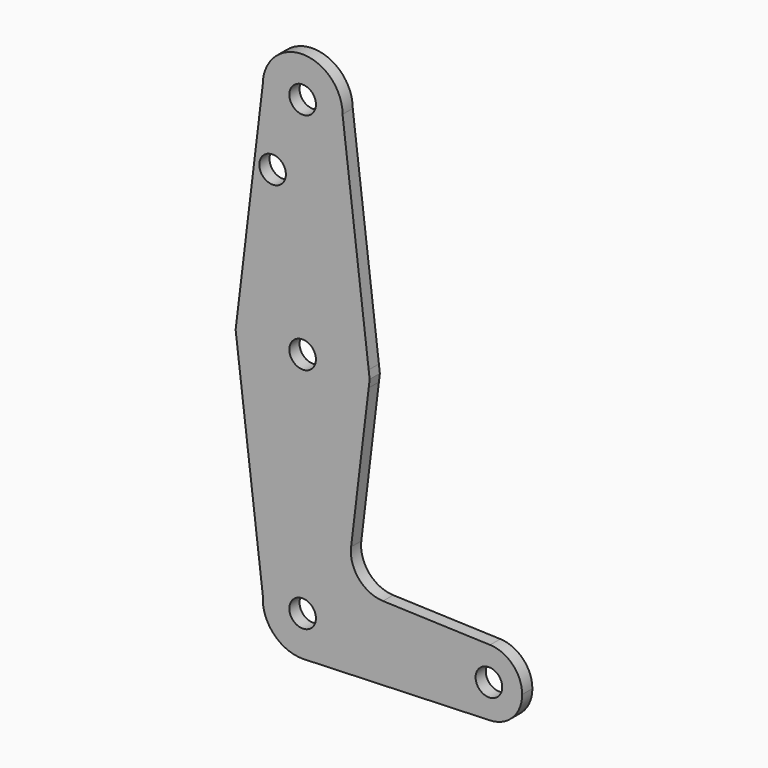
from build123d import *

# Parameters (mm, degrees)
F0_R     = 3.175
F1_DEPTH = 3.048


with BuildPart() as f1:
    # F0 (on Front) → F1 (new body)
    with BuildSketch(Plane.XZ):
        with BuildLine():
            ThreePointArc((0, 44.02666), (6.735192, 46.816468), (9.525, 53.55166))
            ThreePointArc((9.525, 53.55166), (0, 63.07666), (-9.525, 53.55166))
            ThreePointArc((-9.525, 53.55166), (-6.735192, 46.816468), (0, 44.02666))
        make_face()
        with Locations((0, 53.55166)):
            Circle(F0_R, mode=Mode.SUBTRACT)
        with BuildLine():
            Line((15.760555, 1.902767), (9.525, 53.55166))
            ThreePointArc((9.525, 53.55166), (6.735192, 46.816468), (0, 44.02666))
            Line((0, 44.02666), (0, 40.12119))
            Line((0, 40.12119), (0, 36.5252))
            Line((0, 36.5252), (0, 15.875))
            ThreePointArc((0, 15.875), (10.531125, 11.879016), (15.760555, 1.902767))
        make_face()
        with BuildLine():
            ThreePointArc((0, 44.02666), (-6.735192, 46.816468), (-9.525, 53.55166))
            Line((-9.525, 53.55166), (-11.580599, 36.5252))
            Line((-11.580599, 36.5252), (-10.346856, 36.5252))
            ThreePointArc((-10.346856, 36.5252), (-7.171856, 39.7002), (-3.996856, 36.5252))
            Line((-3.996856, 36.5252), (0, 36.5252))
            Line((0, 36.5252), (0, 40.12119))
            Line((0, 40.12119), (0, 44.02666))
        make_face()
        with BuildLine():
            Line((15.990276, 0), (15.760555, 1.902767))
            ThreePointArc((15.760555, 1.902767), (15.846363, 0.953103), (15.875, 0))
            ThreePointArc((15.875, 0), (15.846363, -0.953103), (15.760555, -1.902767))
            Line((15.760555, -1.902767), (15.990276, 0))
        make_face()
        with BuildLine():
            ThreePointArc((3.175, 0), (2.245064, 2.245064), (0, 3.175))
            ThreePointArc((0, 3.175), (-2.245064, -2.245064), (3.175, 0))
        make_face()
        with BuildLine():
            ThreePointArc((15.875, 0), (15.846363, 0.953103), (15.760555, 1.902767))
            ThreePointArc((15.760555, 1.902767), (10.531125, 11.879016), (0, 15.875))
            ThreePointArc((0, 15.875), (-10.531125, 11.879016), (-15.760555, 1.902767))
            ThreePointArc((-15.760555, 1.902767), (-15.875, 0), (-15.760555, -1.902767))
            ThreePointArc((-15.760555, -1.902767), (0, -15.875), (15.760555, -1.902767))
            ThreePointArc((15.760555, -1.902767), (15.846363, -0.953103), (15.875, 0))
        make_face()
        with BuildLine():
            ThreePointArc((3.175, 0), (-2.245064, -2.245064), (0, 3.175))
            ThreePointArc((0, 3.175), (2.245064, 2.245064), (3.175, 0))
        make_face(mode=Mode.SUBTRACT)
        with BuildLine():
            Line((-10.346856, 36.5252), (-11.580599, 36.5252))
            Line((-11.580599, 36.5252), (-15.760555, 1.902767))
            ThreePointArc((-15.760555, 1.902767), (-10.531125, 11.879016), (0, 15.875))
            Line((0, 15.875), (0, 36.5252))
            Line((0, 36.5252), (-3.996856, 36.5252))
            ThreePointArc((-3.996856, 36.5252), (-7.171856, 33.3502), (-10.346856, 36.5252))
        make_face()
        with BuildLine():
            ThreePointArc((-15.760555, -1.902767), (-15.875, 0), (-15.760555, 1.902767))
            Line((-15.760555, 1.902767), (-15.990276, 0))
            Line((-15.990276, 0), (-15.760555, -1.902767))
        make_face()
        with BuildLine():
            Line((11.564578, -36.657906), (15.760555, -1.902767))
            ThreePointArc((15.760555, -1.902767), (0, -15.875), (-15.760555, -1.902767))
            Line((-15.760555, -1.902767), (-9.502236, -53.740212))
            ThreePointArc((-9.502236, -53.740212), (0.329261, -44.879032), (9.525, -54.39834))
            ThreePointArc((9.525, -54.39834), (6.970557, -60.889639), (0.677344, -63.899226))
            Line((0.677344, -63.899226), (44.732405, -62.330814))
            ThreePointArc((44.732405, -62.330814), (36.5125, -54.39834), (44.732405, -46.465865))
            Line((44.732405, -46.465865), (19.174607, -45.555978))
            ThreePointArc((19.174607, -45.555978), (13.415559, -42.778119), (11.564578, -36.657906))
        make_face()
        with BuildLine():
            ThreePointArc((9.525, -54.39834), (0.329261, -44.879032), (-9.502236, -53.740212))
            ThreePointArc((-9.502236, -53.740212), (-6.963989, -60.896684), (0, -63.92334))
            Line((0, -63.92334), (0.677344, -63.899226))
            ThreePointArc((0.677344, -63.899226), (6.970557, -60.889639), (9.525, -54.39834))
        make_face()
        with Locations((0, -54.39834)):
            Circle(F0_R, mode=Mode.SUBTRACT)
        with BuildLine():
            Line((0.677344, -63.899226), (0, -63.92334))
            ThreePointArc((0, -63.92334), (0.338886, -63.917309), (0.677344, -63.899226))
        make_face()
        with BuildLine():
            ThreePointArc((52.3875, -54.39834), (50.161633, -48.886429), (44.732405, -46.465865))
            ThreePointArc((44.732405, -46.465865), (36.5125, -54.39834), (44.732405, -62.330814))
            ThreePointArc((44.732405, -62.330814), (50.161633, -59.91025), (52.3875, -54.39834))
        make_face()
        with Locations((44.45, -54.39834)):
            Circle(F0_R, mode=Mode.SUBTRACT)
    extrude(amount=F1_DEPTH)


solid = f1.part
